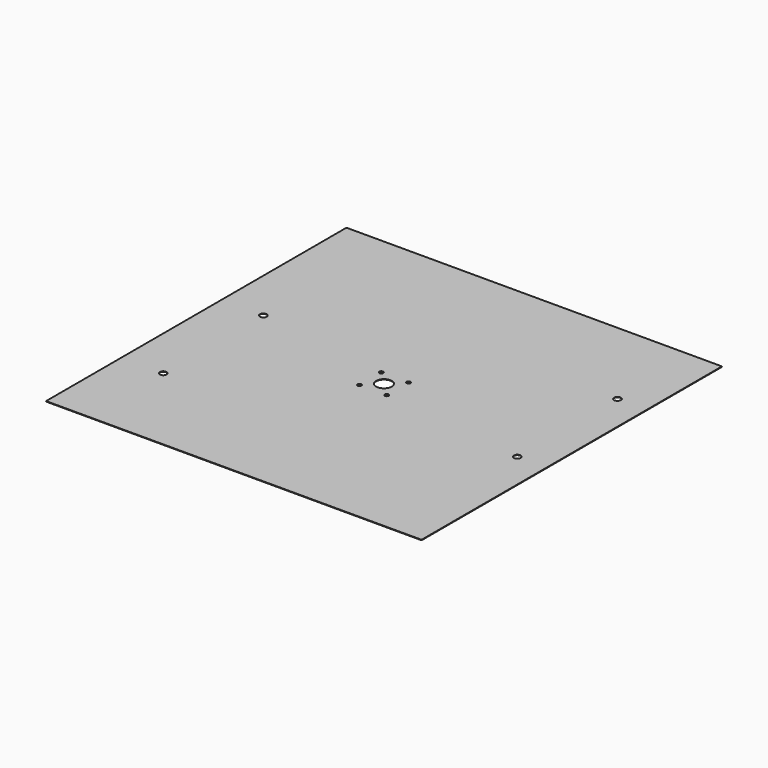
from build123d import *

# Parameters (mm, degrees)
F0_W     = 609.6
F0_H     = 609.6
F1_DEPTH = 0.79375
F2_R     = 5.55625
F3_DEPTH = 25.4
F4_R     = 12.7
F4_R_2   = 3.175
F5_DEPTH = 25.4


with BuildPart() as f1:
    # F0 (on Top) → F1 (new body)
    with BuildSketch(Plane.XY):
        with Locations((304.8, 304.8)):
            Rectangle(F0_W, F0_H)
    extrude(amount=F1_DEPTH)

    # F2 (on face) → F3 (cut)
    with BuildSketch(Plane.XY.offset(0.79375)):
        with Locations((68.2625, 152.4)):
            Circle(F2_R)
        with Locations((68.2625, 355.6)):
            Circle(F2_R)
        with Locations((561.975, 254)):
            Circle(F2_R)
        with Locations((561.975, 457.2)):
            Circle(F2_R)
    extrude(amount=-F3_DEPTH, mode=Mode.SUBTRACT)

    # F4 (on face) → F5 (cut)
    with BuildSketch(Plane.XY.offset(0.79375)):
        with Locations((304.8, 304.8)):
            Circle(F4_R)
        with Locations((282.575, 327.025)):
            Circle(F4_R_2)
        with Locations((327.025, 327.025)):
            Circle(F4_R_2)
        with Locations((327.025, 282.575)):
            Circle(F4_R_2)
        with Locations((282.575, 282.575)):
            Circle(F4_R_2)
    extrude(amount=-F5_DEPTH, mode=Mode.SUBTRACT)


solid = f1.part
